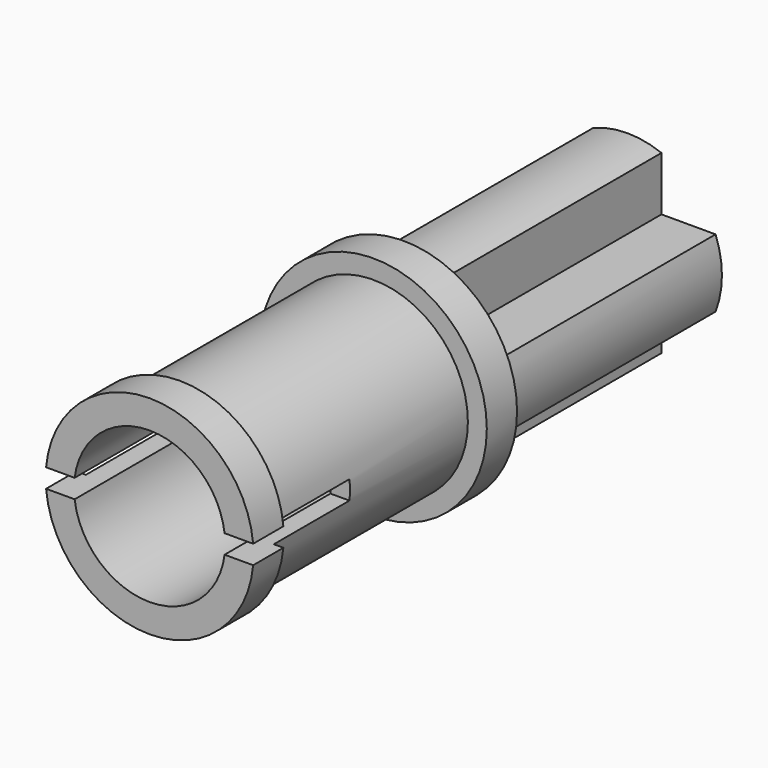
from build123d import *

# Parameters (mm, degrees)
F0_R      = 3
F1_DEPTH  = 0.5
F2_R      = 2.499
F2_R_2    = 1.999
F3_DEPTH  = 5.9
F4_R      = 2.75
F4_R_2    = 1.999
F5_DEPTH  = 1
F7_DEPTH  = 3
F9_DEPTH  = 7.4
F10_DEPTH = 0.5
F11_DEPTH = 0.5


with BuildPart() as f1:
    # F0 (on Front) → F1 (new body, symmetric)
    with BuildSketch(Plane.XZ):
        Circle(F0_R)
    extrude(amount=F1_DEPTH, both=True)

    # F2 (on face) → F3 (join)
    with BuildSketch(Plane.XZ.offset(0.5)):
        Circle(F2_R)
        Circle(F2_R_2, mode=Mode.SUBTRACT)
    extrude(amount=F3_DEPTH)

    # F4 (on face) → F5 (join)
    with BuildSketch(Plane.XZ.offset(6.4)):
        Circle(F4_R)
        Circle(F4_R_2, mode=Mode.SUBTRACT)
    extrude(amount=F5_DEPTH)

    # F6 (on face) → F7 (cut)
    with BuildSketch(Plane.XZ.offset(7.4)):
        with BuildLine():
            ThreePointArc((2.7386127875, -0.25), (2.75, 0), (2.7386127875, 0.25))
            Line((2.7386127875, 0.25), (1.983305574, 0.25))
            ThreePointArc((1.983305574, 0.25), (1.999, 0), (1.983305574, -0.25))
            Line((1.983305574, -0.25), (2.7386127875, -0.25))
        make_face()
        with BuildLine():
            Line((-2.7386127875, -0.25), (-1.983305574, -0.25))
            ThreePointArc((-1.983305574, -0.25), (-1.999, 0), (-1.983305574, 0.25))
            Line((-1.983305574, 0.25), (-2.7386127875, 0.25))
            ThreePointArc((-2.7386127875, 0.25), (-2.75, 0), (-2.7386127875, -0.25))
        make_face()
    extrude(amount=-F7_DEPTH, mode=Mode.SUBTRACT)

    # F8 (on face) → F9 (join)
    with BuildSketch(Plane(origin=(0, 0.5, 0), x_dir=(-1, 0, 0), z_dir=(0, 1, 0))):
        with BuildLine():
            Line((-0.9, -0.9), (-0.9, -2.3313088598))
            ThreePointArc((-0.9, -2.3313088598), (0, -2.499), (0.9, -2.3313088598))
            Line((0.9, -2.3313088598), (0.9, -0.9))
            Line((0.9, -0.9), (2.3313088598, -0.9))
            ThreePointArc((2.3313088598, -0.9), (2.499, 0), (2.3313088598, 0.9))
            Line((2.3313088598, 0.9), (0.9, 0.9))
            Line((0.9, 0.9), (0.9, 2.3313088598))
            ThreePointArc((0.9, 2.3313088598), (0, 2.499), (-0.9, 2.3313088598))
            Line((-0.9, 2.3313088598), (-0.9, 0.9))
            Line((-0.9, 0.9), (-2.3313088598, 0.9))
            ThreePointArc((-2.3313088598, 0.9), (-2.499, 0), (-2.3313088598, -0.9))
            Line((-2.3313088598, -0.9), (-0.9, -0.9))
        make_face()
    extrude(amount=F9_DEPTH)

    # F10 (add): faces of the model
    f10_faces = [f1.faces().sort_by_distance(p)[0] for p in [
        (2.3609591808, -7.4, 0.3102079729),
        (0, -7.4, -2.6897920271),
    ]]
    extrude(f10_faces, amount=F10_DEPTH)

    # F11 (cut): faces of the model
    f11_faces = [f1.faces().sort_by_distance(p)[0] for p in [
        (2.6125381702, -6.4, 0.3102079729),
        (0, -6.4, -2.6897920271),
    ]]
    extrude(f11_faces, amount=-F11_DEPTH, mode=Mode.SUBTRACT)


solid = f1.part
